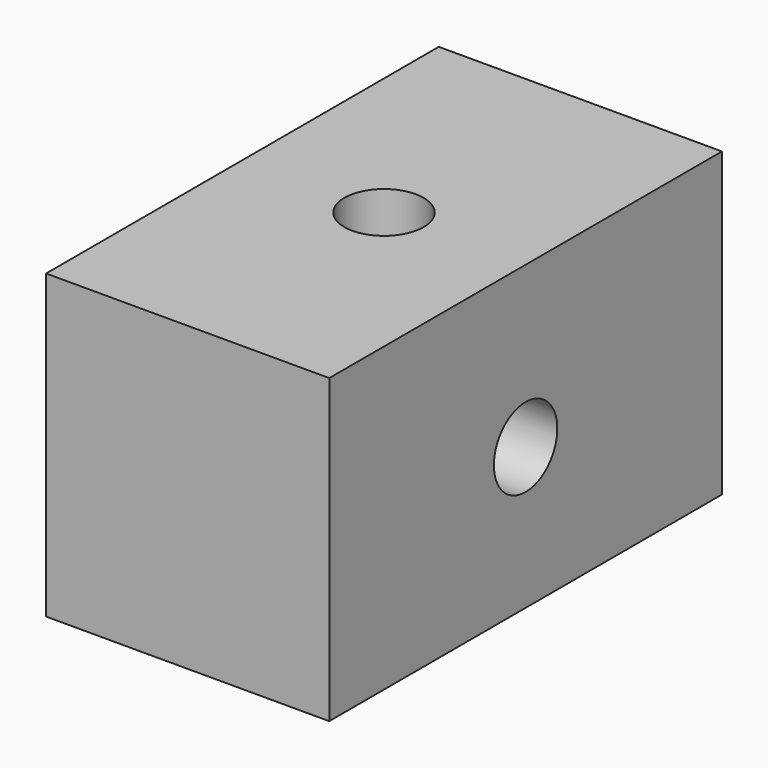
from build123d import *

# Parameters (mm, degrees)
F0_W     = 15
F0_H     = 26
F1_DEPTH = 16
F3_D     = 4.2
F5_D     = 4.2


with BuildPart() as f1:
    # F0 (on Top) → F1 (new body)
    with BuildSketch(Plane.XY):
        with Locations((7.5, 13)):
            Rectangle(F0_W, F0_H)
    extrude(amount=F1_DEPTH)

    # F3 (through all)
    with Locations(Plane.XY.offset(16)):
        with Locations((7.5, 13)):
            Hole(F3_D / 2)

    # F5 (through all)
    with Locations(Plane.YZ.offset(15)):
        with Locations((13, 7.5)):
            Hole(F5_D / 2)


solid = f1.part
